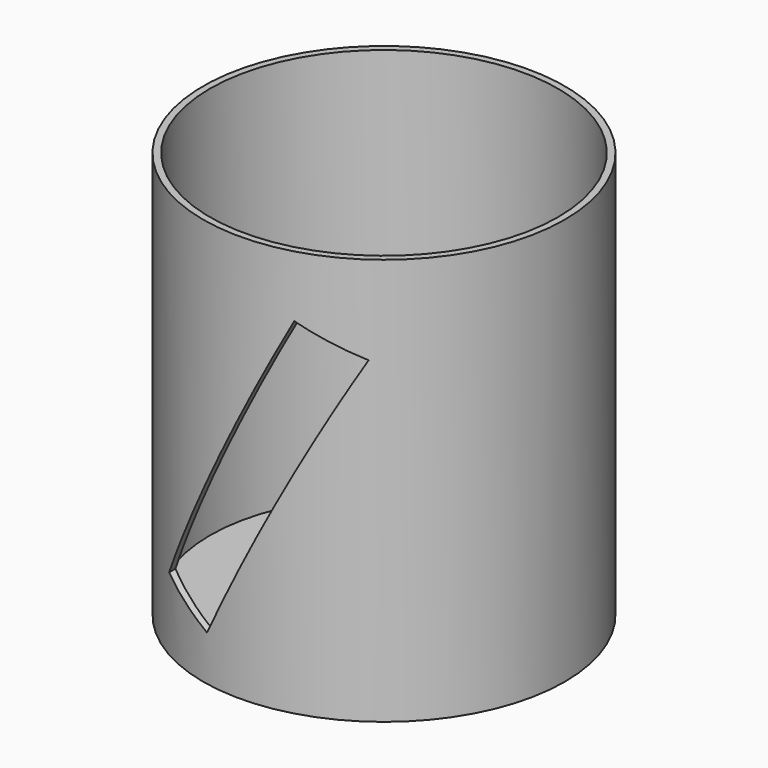
from build123d import *

# Parameters (mm, degrees)
SKETCH_R        = 40
PAD_DEPTH       = 90
SKETCH001_R     = 38.5
POCKET_DEPTH    = 87
POCKET001_DEPTH = 50


with BuildPart() as part:
    # Sketch → Pad (new body)
    with BuildSketch(Plane.XY):
        Circle(SKETCH_R)
    extrude(amount=PAD_DEPTH)

    # Sketch001 (on Face3 of Pad) → Pocket (cut)
    with BuildSketch(Plane.XY.offset(90)):
        Circle(SKETCH001_R)
    extrude(amount=-POCKET_DEPTH, mode=Mode.SUBTRACT)

    # Sketch002 → Pocket001 (cut)
    with BuildSketch(Plane.XZ.offset(45)):
        Polygon((-19.683228, 16.045872), (10.932937, 76.430139), (22.858825, 70.387448), (-7.758954, 10), align=None)
    extrude(amount=-POCKET001_DEPTH, mode=Mode.SUBTRACT)


solid = part.part
